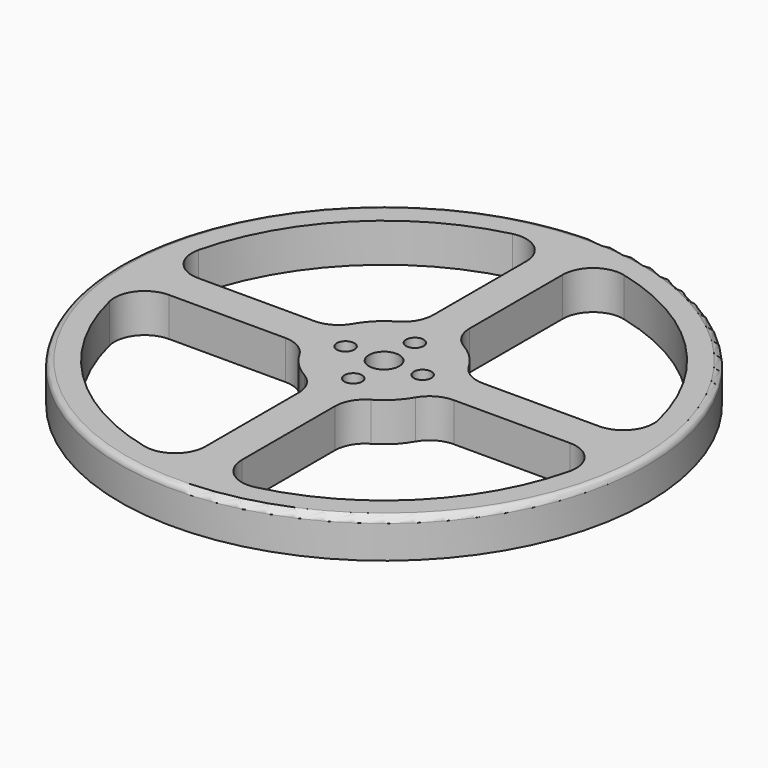
from build123d import *

# Parameters (mm, degrees)
F0_R     = 43.5
F0_R_2   = 1.45
F0_R_3   = 2.5
F1_DEPTH = 6.4
F2_R     = 5
F3_R     = 1


with BuildPart() as f1:
    # F0 (on Top) → F1 (new body)
    with BuildSketch(Plane.XY):
        Circle(F0_R)
        with BuildLine():
            ThreePointArc((-10.608988, -3), (-7.795852, -7.795852), (-3, -10.608988))
            Line((-3, -10.608988), (-3, -38.884444))
            ThreePointArc((-3, -38.884444), (-27.577164, -27.577164), (-38.884444, -3))
            Line((-38.884444, -3), (-10.608988, -3))
        make_face(mode=Mode.SUBTRACT)
        with BuildLine():
            ThreePointArc((3, -10.608988), (7.795852, -7.795852), (10.608988, -3))
            Line((10.608988, -3), (38.884444, -3))
            ThreePointArc((38.884444, -3), (27.577164, -27.577164), (3, -38.884444))
            Line((3, -38.884444), (3, -10.608988))
        make_face(mode=Mode.SUBTRACT)
        with Locations((0, -6.35)):
            Circle(F0_R_2, mode=Mode.SUBTRACT)
        with Locations((-6.35, 0)):
            Circle(F0_R_2, mode=Mode.SUBTRACT)
        with BuildLine():
            ThreePointArc((-3, 10.608988), (-7.795852, 7.795852), (-10.608988, 3))
            Line((-10.608988, 3), (-38.884444, 3))
            ThreePointArc((-38.884444, 3), (-27.577164, 27.577164), (-3, 38.884444))
            Line((-3, 38.884444), (-3, 10.608988))
        make_face(mode=Mode.SUBTRACT)
        Circle(F0_R_3, mode=Mode.SUBTRACT)
        with Locations((6.35, 0)):
            Circle(F0_R_2, mode=Mode.SUBTRACT)
        with Locations((0, 6.35)):
            Circle(F0_R_2, mode=Mode.SUBTRACT)
        with BuildLine():
            ThreePointArc((10.608988, 3), (7.795852, 7.795852), (3, 10.608988))
            Line((3, 10.608988), (3, 38.884444))
            ThreePointArc((3, 38.884444), (27.577164, 27.577164), (38.884444, 3))
            Line((38.884444, 3), (10.608988, 3))
        make_face(mode=Mode.SUBTRACT)
    extrude(amount=F1_DEPTH)

    # F2
    f2_edges = [f1.edges().sort_by_distance(p)[0] for p in [
        (-10.608988, -3, 3.2),
        (-3, -10.608988, 3.2),
        (-3, 10.608988, 3.2),
        (-10.608988, 3, 3.2),
        (3, -10.608988, 3.2),
        (10.608988, -3, 3.2),
        (10.608988, 3, 3.2),
        (3, 10.608988, 3.2),
        (-38.884444, -3, 3.2),
        (-3, -38.884444, 3.2),
        (3, -38.884444, 3.2),
        (38.884444, -3, 3.2),
        (38.884444, 3, 3.2),
        (3, 38.884444, 3.2),
        (-3, 38.884444, 3.2),
        (-38.884444, 3, 3.2),
    ]]
    fillet(f2_edges, radius=F2_R)

    # F3
    f3_edges = [f1.edges().sort_by_distance(p)[0] for p in [
        (-43.5, 0, 6.4),
    ]]
    fillet(f3_edges, radius=F3_R)


solid = f1.part
